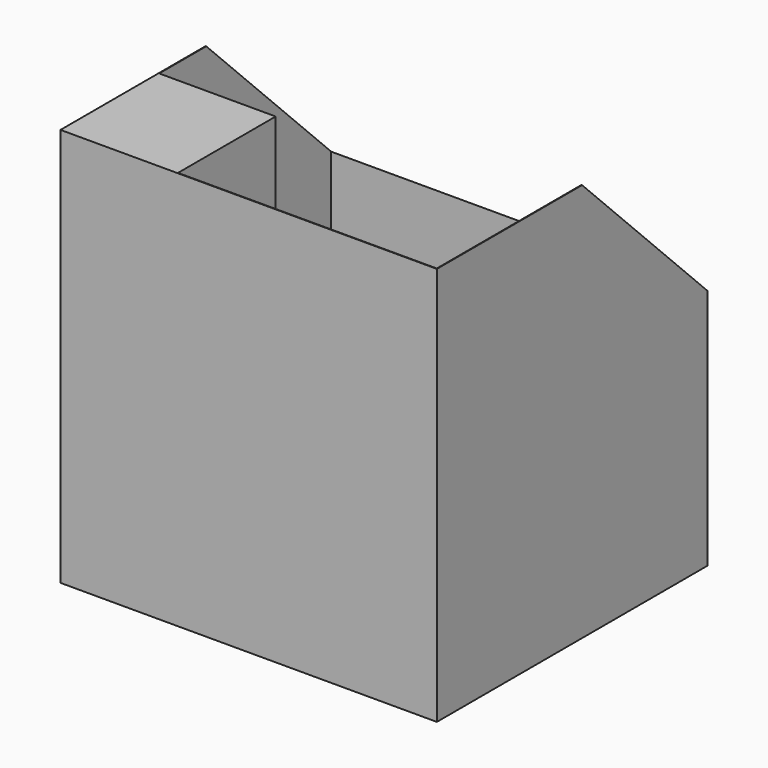
from build123d import *

# Parameters (mm, degrees)
F0_W      = 2133.6
F0_H      = 1917.7
F1_DEPTH  = 2260.6
F2_W      = 990.6
F2_H      = 1219.2
F2_W_2    = 1016
F3_DEPTH  = 2260.601
F4_W      = 1346.2
F4_H      = 457.2
F5_DEPTH  = 2260.601
F7_DEPTH  = 2133.601
F8_W      = 1466.85
F8_H      = 234.95
F9_DEPTH  = 2260.601
F10_W     = 120.65
F10_H     = 1219.2
F10_H_2   = 457.2
F11_DEPTH = 2260.601


with BuildPart() as f1:
    # F0 (on Top) → F1 (new body)
    with BuildSketch(Plane.XY):
        with Locations((1066.8, 958.85)):
            Rectangle(F0_W, F0_H)
    extrude(amount=F1_DEPTH)

    # F2 (on face) → F3 (cut, through all)
    with BuildSketch(Plane.XY.offset(2260.6)):
        with Locations((1635.125, 1304.925)):
            Rectangle(F2_W, F2_H)
        with Locations((511.175, 1304.925)):
            Rectangle(F2_W_2, F2_H)
    extrude(amount=-F3_DEPTH, mode=Mode.SUBTRACT)

    # F4 (on face) → F5 (cut, through all)
    with BuildSketch(Plane.XY.offset(2260.6)):
        with Locations((1336.675, 231.775)):
            Rectangle(F4_W, F4_H)
    extrude(amount=-F5_DEPTH, mode=Mode.SUBTRACT)

    # F6 (on face) → F7 (cut, through all)
    with BuildSketch(Plane.YZ.offset(2133.6)):
        Polygon((1917.7, 1371.6), (1917.7, 2260.6), (1028.7, 2260.6), align=None)
    extrude(amount=-F7_DEPTH, mode=Mode.SUBTRACT)

    # F8 (on face) → F9 (cut, through all)
    with BuildSketch(Plane.XY.offset(2260.6)):
        with Locations((1397, 577.85)):
            Rectangle(F8_W, F8_H)
    extrude(amount=-F9_DEPTH, mode=Mode.SUBTRACT)

    # F10 (on face) → F11 (cut, through all)
    with BuildSketch(Plane.XY.offset(2260.6)):
        with Locations((1079.5, 1304.925)):
            Rectangle(F10_W, F10_H)
        with Locations((2070.1, 231.775)):
            Rectangle(F10_W, F10_H_2)
    extrude(amount=-F11_DEPTH, mode=Mode.SUBTRACT)


solid = f1.part
